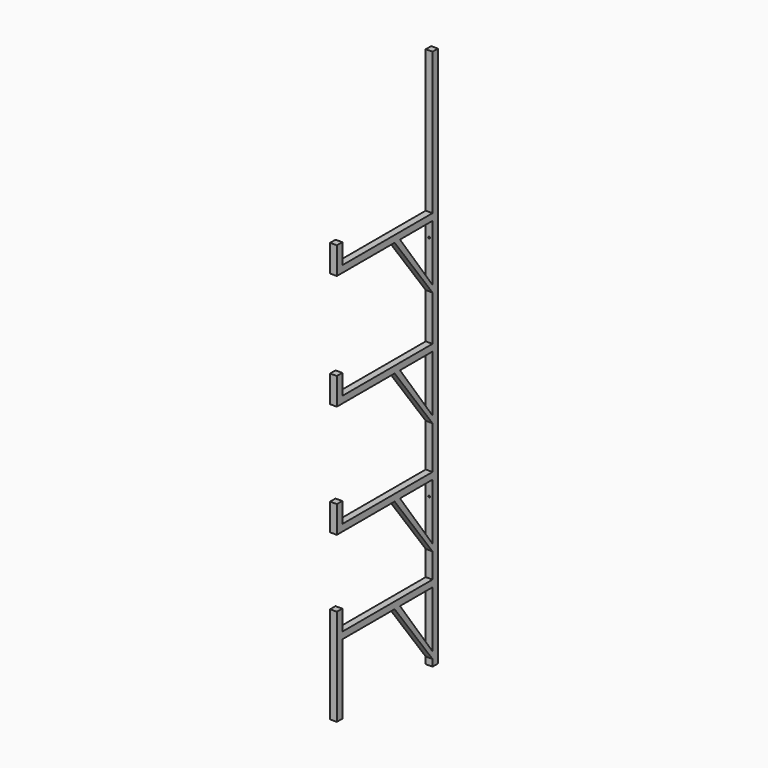
from build123d import *

# Parameters (mm, degrees)
F0_W      = 38.1
F0_H      = 3048
F1_DEPTH  = 38.1
F2_W      = 38.1
F2_H      = 38.1
F3_DEPTH  = 673.1
F4_W      = 38.1
F4_H      = 38.1
F5_DEPTH  = 114.3
F6_W      = 38.1
F6_H      = 38.1
F7_DEPTH  = 114.3
F8_W      = 38.1
F8_H      = 38.1
F9_DEPTH  = 114.3
F10_W     = 38.1
F10_H     = 38.1
F11_DEPTH = 114.3
F12_W     = 38.1
F12_H     = 38.1
F13_DEPTH = 393.7
F15_DEPTH = 38.1
F17_D     = 10.0838
F17_DEPTH = 38.101


with BuildPart() as f1:
    # F0 (on Right) → F1 (new body)
    with BuildSketch(Plane.YZ):
        with Locations((8.9606698602, 1437.4623473273)):
            Rectangle(F0_W, F0_H)
    extrude(amount=F1_DEPTH)

    # F2 (on face) → F3 (join)
    with BuildSketch(Plane.XZ.offset(10.0893301398)):
        with Locations((19.05, 2142.3123473273)):
            Rectangle(F2_W, F2_H)
        with Locations((19.05, 1494.6123473273)):
            Rectangle(F2_W, F2_H)
        with Locations((19.05, 859.6123473273)):
            Rectangle(F2_W, F2_H)
        with Locations((19.05, 326.2123473273)):
            Rectangle(F2_W, F2_H)
    extrude(amount=F3_DEPTH)

    # F4 (on face) → F5 (join)
    with BuildSketch(Plane.XY.offset(2161.3623473273)):
        with Locations((19.05, -664.1393301398)):
            Rectangle(F4_W, F4_H)
    extrude(amount=F5_DEPTH)

    # F6 (on face) → F7 (join)
    with BuildSketch(Plane.XY.offset(1513.6623473273)):
        with Locations((19.05, -664.1393301398)):
            Rectangle(F6_W, F6_H)
    extrude(amount=F7_DEPTH)

    # F8 (on face) → F9 (join)
    with BuildSketch(Plane.XY.offset(878.6623473273)):
        with Locations((19.05, -664.1393301398)):
            Rectangle(F8_W, F8_H)
    extrude(amount=F9_DEPTH)

    # F10 (on face) → F11 (join)
    with BuildSketch(Plane.XY.offset(345.2623473273)):
        with Locations((19.05, -664.1393301398)):
            Rectangle(F10_W, F10_H)
    extrude(amount=F11_DEPTH)

    # F12 (on face) → F13 (join, through all)
    with BuildSketch(Plane(origin=(0, 0, 307.1623473273), x_dir=(1, 0, 0), z_dir=(0, 0, -1))):
        with Locations((19.05, 664.1393301398)):
            Rectangle(F12_W, F12_H)
    extrude(amount=F13_DEPTH)

    # F14 (on face) → F15 (join)
    with BuildSketch(Plane.YZ.offset(38.1)):
        Polygon((-276.7893301398, 2123.2623473273), (-10.0893301398, 1767.6623473273), (-10.0893301398, 1805.7623473273), (-238.6893301398, 2123.2623473273), align=None)
        Polygon((-276.7893301398, 1475.5623473273), (-10.0893301398, 1119.9623473273), (-10.0893301398, 1158.0623473273), (-238.6893301398, 1475.5623473273), align=None)
        Polygon((-238.6893301398, 840.5623473273), (-276.7893301398, 840.5623473273), (-10.0893301398, 484.9623473273), (-10.0893301398, 523.0623473273), align=None)
        Polygon((-238.6893301398, 307.1623473273), (-276.7893301398, 307.1623473273), (-10.0893301398, -48.4376526727), (-10.0893301398, -10.3376526727), align=None)
    extrude(amount=-F15_DEPTH)

    # F17 (through all, one way)
    with BuildSketch(Plane.XZ.offset(10.0893301398)):
        with Locations((19.05, 2034.3623473273), (19.05, 751.6623473273)):
            Circle(F17_D / 2)
    extrude(amount=-F17_DEPTH, mode=Mode.SUBTRACT)


solid = f1.part
